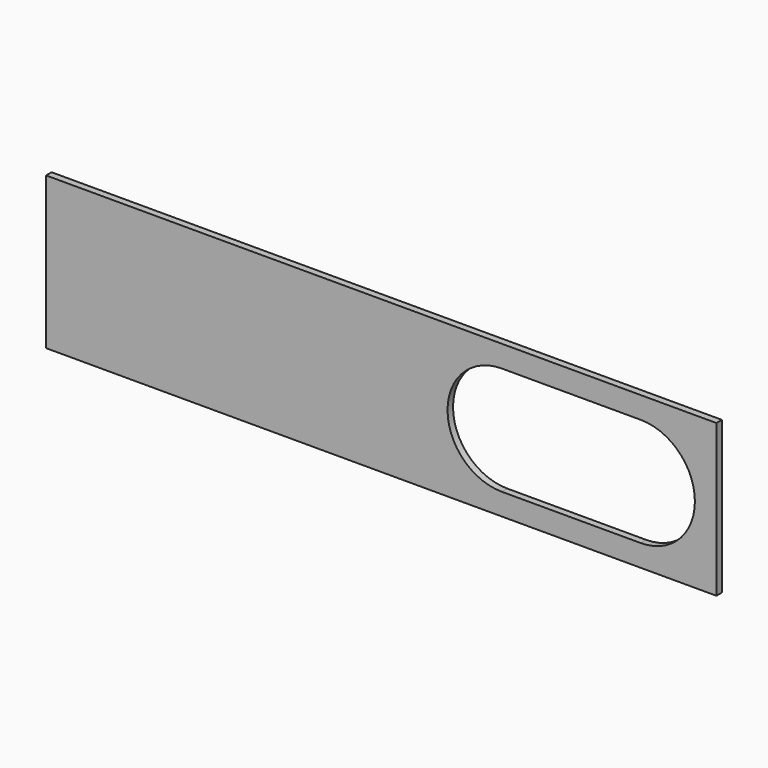
from build123d import *

# Parameters (mm, degrees)
F0_W     = 1168
F0_H     = 265
F1_DEPTH = 12


with BuildPart() as f1:
    # F0 (on Front) → F1 (new body)
    with BuildSketch(Plane.XZ):
        Rectangle(F0_W, F0_H)
        with BuildLine():
            Line((268.2301468313, 94.5), (393.7698531687, 94.5))
            ThreePointArc((393.7698531687, 94.5), (506.1177129123, 96.9137407654), (563, 0))
            ThreePointArc((563, 0), (506.1177129123, -96.9137407654), (393.7698531687, -94.5))
            Line((393.7698531687, -94.5), (268.2301468313, -94.5))
            ThreePointArc((268.2301468313, -94.5), (99, 0), (268.2301468313, 94.5))
        make_face(mode=Mode.SUBTRACT)
        with BuildLine():
            Line((210, 94.5), (268.2301468313, 94.5))
            ThreePointArc((268.2301468313, 94.5), (99, 0), (268.2301468313, -94.5))
            Line((268.2301468313, -94.5), (210, -94.5))
            ThreePointArc((210, -94.5), (115.5, 0), (210, 94.5))
        make_face()
        with BuildLine():
            ThreePointArc((452, 94.5), (518.8215908221, 66.8215908221), (546.5, 0))
            ThreePointArc((546.5, 0), (518.8215908221, -66.8215908221), (452, -94.5))
            Line((452, -94.5), (393.7698531687, -94.5))
            ThreePointArc((393.7698531687, -94.5), (506.1177129123, -96.9137407654), (563, 0))
            ThreePointArc((563, 0), (506.1177129123, 96.9137407654), (393.7698531687, 94.5))
            Line((393.7698531687, 94.5), (452, 94.5))
        make_face()
    extrude(amount=F1_DEPTH)


solid = f1.part
